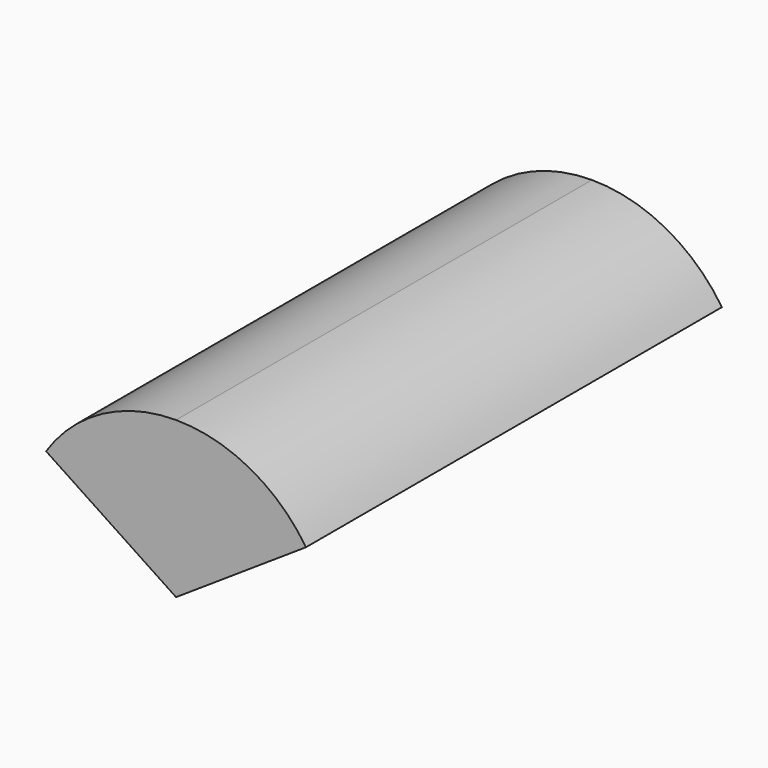
from build123d import *

# Parameters (mm, degrees)
F1_DEPTH = 10000


with BuildPart() as f1:
    # F0 (on Front) → F1 (new body)
    with BuildSketch(Plane.XZ):
        with BuildLine():
            Line((-3.62111, -1658.312395), (-3.62111, 1341.687605))
            ThreePointArc((-3.62111, 1341.687605), (-1422.258276, 985.069642), (-2503.62111, 0))
            Line((-2503.62111, 0), (-3.62111, -1658.312395))
        make_face()
        with BuildLine():
            Line((-3.62111, -1658.312395), (2496.37889, 0))
            ThreePointArc((2496.37889, 0), (1415.016055, 985.069642), (-3.62111, 1341.687605))
            Line((-3.62111, 1341.687605), (-3.62111, -1658.312395))
        make_face()
        with BuildLine():
            Line((-3.62111, -1658.312395), (-3.62111, 1341.687605))
            ThreePointArc((-3.62111, 1341.687605), (-1422.258276, 985.069642), (-2503.62111, 0))
            Line((-2503.62111, 0), (-3.62111, -1658.312395))
        make_face()
    extrude(amount=F1_DEPTH)


solid = f1.part
